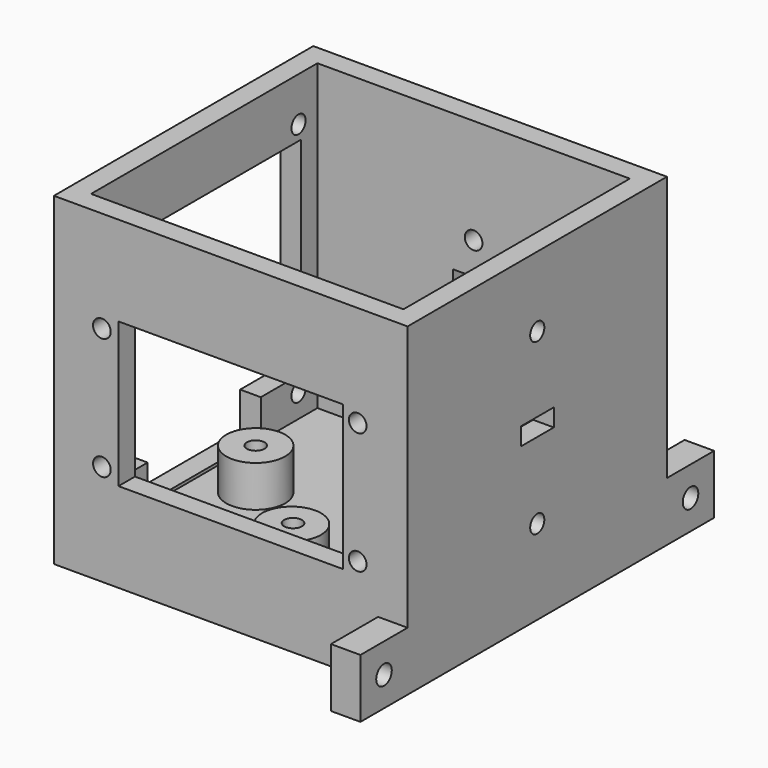
from build123d import *

# Parameters (mm, degrees)
F0_W            = 60
F0_H            = 55
F1_DEPTH        = 55
F2_T            = -3.5
F4_DEPTH        = 5
F6_D            = 3
F6_DEPTH        = 12
F6_TIP          = 0.9012909285
F8_D            = 3
F8_DEPTH        = 12
F8_TIP          = 0.9012909285
F7_W            = 41
F7_H            = 35
F9_DEPTH        = 25
F10_R           = 5
F11_DEPTH       = 7
F13_D           = 3
F13_DEPTH       = 5
F13_TIP         = 0.9012909285
F14_W           = 7
F14_H           = 3
F15_DEPTH       = 5
F16_W           = 7
F16_H           = 5
F17_DEPTH       = 5
F18_W           = 24
F18_H           = 6
F19_DEPTH       = 4
F21_D           = 3
F21_DEPTH       = 5
F21_TIP         = 0.9012909285
F23_D           = 3
F23_DEPTH       = 5
F23_TIP         = 0.9012909285
F24_W           = 5
F24_H           = 10
F25_DEPTH       = 10
F27_D           = 3.3
F27_DEPTH       = 5
F27_CSINK_D     = 6.72
F27_CSINK_ANGLE = 90
F27_TIP         = 0.9914200214
F28_W           = 5
F28_H           = 10
F29_DEPTH       = 10
F31_D           = 3.3
F31_DEPTH       = 5
F31_CSINK_D     = 6.72
F31_CSINK_ANGLE = 90
F31_TIP         = 0.9914200214


with BuildPart() as f1:
    # F0 (on Top) → F1 (new body)
    with BuildSketch(Plane.XY):
        Rectangle(F0_W, F0_H)
    extrude(amount=F1_DEPTH)

    # F2
    f2_openings = [f1.faces().sort_by_distance(p)[0] for p in [
        (0, 0, 55),
    ]]
    offset(amount=F2_T, openings=f2_openings)

    # F3 (on face) → F4 (cut)
    with BuildSketch(Plane.XZ.offset(27.5)):
        Polygon((19.05, 39.8), (-19.05, 39.8), (-19.05, 15.2), (0, 15.2), (19.05, 15.2), align=None)
    extrude(amount=-F4_DEPTH, mode=Mode.SUBTRACT)

    # F6
    with Locations(Plane.XZ.offset(27.5)):
        with Locations((-21.8598913223, 37.825), (-21.8598913223, 17.175), (21.5401086777, 17.175), (21.5401086777, 37.825)):
            Hole(F6_D / 2, depth=F6_DEPTH)
            with Locations((0, 0, -(F6_DEPTH + F6_TIP / 2))):  # 118° drill point
                Cone(0, F6_D / 2, F6_TIP, mode=Mode.SUBTRACT)

    # F8
    with Locations(Plane(origin=(-30, 0, 0), x_dir=(0, -1, 0), z_dir=(-1, 0, 0))):
        with Locations((-20, 47.5), (-20, 7.5), (20, 7.5), (20, 47.5)):
            Hole(F8_D / 2, depth=F8_DEPTH)
            with Locations((0, 0, -(F8_DEPTH + F8_TIP / 2))):  # 118° drill point
                Cone(0, F8_D / 2, F8_TIP, mode=Mode.SUBTRACT)

    # F7 (on face) → F9 (cut)
    with BuildSketch(Plane(origin=(-30, 0, 0), x_dir=(0, -1, 0), z_dir=(-1, 0, 0))):
        with Locations((0, 27.5)):
            Rectangle(F7_W, F7_H)
    extrude(amount=-F9_DEPTH, mode=Mode.SUBTRACT)

    # F10 (on face) → F11 (join)
    with BuildSketch(Plane.XY.offset(3.5)):
        with Locations((-17.7631583065, 0)):
            Circle(F10_R)
        with Locations((0, 15.3929423541)):
            Circle(F10_R)
        with Locations((16.9736854732, 0)):
            Circle(F10_R)
        with Locations((0, -14.607058838)):
            Circle(F10_R)
    extrude(amount=F11_DEPTH)

    # F13
    with Locations(Plane.XY.offset(10.5)):
        with Locations((0, 15.4706398025), (-17.7631583065, 0), (0, -14.2931165174), (17.22384803, 0)):
            Hole(F13_D / 2, depth=F13_DEPTH)
            with Locations((0, 0, -(F13_DEPTH + F13_TIP / 2))):  # 118° drill point
                Cone(0, F13_D / 2, F13_TIP, mode=Mode.SUBTRACT)

    # F14 (on face) → F15 (cut)
    with BuildSketch(Plane.YZ.offset(30)):
        with Locations((0, 28.8139954209)):
            Rectangle(F14_W, F14_H)
    extrude(amount=-F15_DEPTH, mode=Mode.SUBTRACT)

    # F16 (on face) → F17 (cut)
    with BuildSketch(Plane(origin=(0, 27.5, 0), x_dir=(-1, 0, 0), z_dir=(0, 1, 0))):
        with Locations((0, 29.2087327689)):
            Rectangle(F16_W, F16_H)
    extrude(amount=-F17_DEPTH, mode=Mode.SUBTRACT)

    # F18 (on face) → F19 (cut)
    with BuildSketch(Plane(origin=(-30, 0, 0), x_dir=(0, -1, 0), z_dir=(-1, 0, 0))):
        with Locations((0, 7)):
            Rectangle(F18_W, F18_H)
    extrude(amount=-F19_DEPTH, mode=Mode.SUBTRACT)

    # F21
    with Locations(Plane.YZ.offset(30)):
        with Locations((0, 43.075658381), (0, 14.3585540354)):
            Hole(F21_D / 2, depth=F21_DEPTH)
            with Locations((0, 0, -(F21_DEPTH + F21_TIP / 2))):  # 118° drill point
                Cone(0, F21_D / 2, F21_TIP, mode=Mode.SUBTRACT)

    # F23
    with Locations(Plane(origin=(0, 27.5, 0), x_dir=(-1, 0, 0), z_dir=(0, 1, 0))):
        with Locations((0, 37.1811050391), (0, 13.7660141307)):
            Hole(F23_D / 2, depth=F23_DEPTH)
            with Locations((0, 0, -(F23_DEPTH + F23_TIP / 2))):  # 118° drill point
                Cone(0, F23_D / 2, F23_TIP, mode=Mode.SUBTRACT)

    # F24 (on face) → F25 (join)
    with BuildSketch(Plane.XZ.offset(27.5)):
        with Locations((27.5, 5)):
            Rectangle(F24_W, F24_H)
    extrude(amount=F25_DEPTH)

    # F27
    with Locations(Plane(origin=(25, 0, 0), x_dir=(0, -1, 0), z_dir=(-1, 0, 0))):
        with Locations((32.5, 5)):
            CounterSinkHole(F27_D / 2, F27_CSINK_D / 2, depth=F27_DEPTH, counter_sink_angle=F27_CSINK_ANGLE)
            with Locations((0, 0, -(F27_DEPTH + F27_TIP / 2))):  # 118° drill point
                Cone(0, F27_D / 2, F27_TIP, mode=Mode.SUBTRACT)

    # F28 (on face) → F29 (join)
    with BuildSketch(Plane(origin=(0, 27.5, 0), x_dir=(-1, 0, 0), z_dir=(0, 1, 0))):
        with Locations((-27.5, 5)):
            Rectangle(F28_W, F28_H)
    extrude(amount=F29_DEPTH)

    # F31
    with Locations(Plane(origin=(25, 0, 0), x_dir=(0, -1, 0), z_dir=(-1, 0, 0))):
        with Locations((-32.5, 5)):
            CounterSinkHole(F31_D / 2, F31_CSINK_D / 2, depth=F31_DEPTH, counter_sink_angle=F31_CSINK_ANGLE)
            with Locations((0, 0, -(F31_DEPTH + F31_TIP / 2))):  # 118° drill point
                Cone(0, F31_D / 2, F31_TIP, mode=Mode.SUBTRACT)


solid = f1.part
